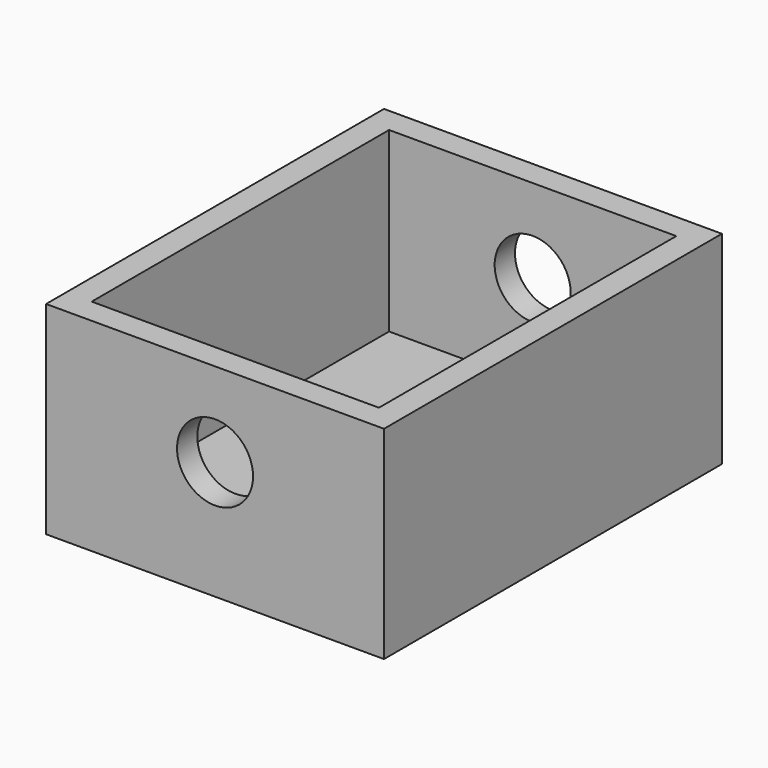
from build123d import *

# Parameters (mm, degrees)
F0_W     = 40
F0_H     = 50
F1_DEPTH = 24
F2_W     = 34
F2_H     = 44
F3_DEPTH = 21
F4_R     = 4.5
F5_DEPTH = 50.001
F6_R     = 4.5
F7_DEPTH = 3.001


with BuildPart() as f1:
    # F0 (on Top) → F1 (new body)
    with BuildSketch(Plane.XY):
        Rectangle(F0_W, F0_H)
    extrude(amount=F1_DEPTH)

    # F2 (on face) → F3 (cut, through all)
    with BuildSketch(Plane.XY.offset(24)):
        Rectangle(F2_W, F2_H)
    extrude(amount=-F3_DEPTH, mode=Mode.SUBTRACT)

    # F4 (on face) → F5 (cut, through all)
    with BuildSketch(Plane.XZ.offset(25)):
        with Locations((0, 14)):
            Circle(F4_R)
    extrude(amount=-F5_DEPTH, mode=Mode.SUBTRACT)

    # F6 (on face) → F7 (cut, through all)
    with BuildSketch(Plane.XY.offset(3)):
        Circle(F6_R)
    extrude(amount=-F7_DEPTH, mode=Mode.SUBTRACT)


solid = f1.part
